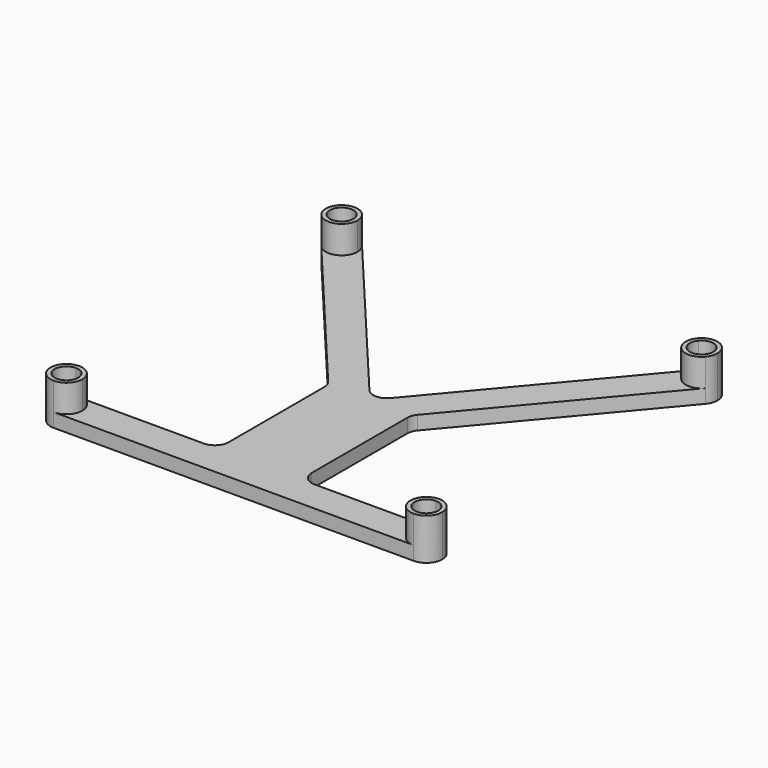
from build123d import *

# Parameters (mm, degrees)
F1_DEPTH = 5
F2_DEPTH = 15
F3_R     = 5


with BuildPart() as f1:
    # F0 (on Top) → F1 (new body)
    with BuildSketch(Plane.XY):
        with BuildLine():
            Line((-69.403826, 64.784578), (-15, -0.018286))
            Line((-15, -0.018286), (-15, -50.018286))
            Line((-15, -50.018286), (-65, -50.018286))
            ThreePointArc((-65, -50.018286), (-60.934136, -51.702422), (-59.25, -55.768286))
            ThreePointArc((-59.25, -55.768286), (-60.934136, -59.83415), (-65, -61.518286))
            Line((-65, -61.518286), (-15, -61.518286))
            Line((-15, -61.518286), (15, -61.518286))
            Line((15, -61.518286), (65, -61.518286))
            ThreePointArc((65, -61.518286), (59.25, -55.768286), (65, -50.018286))
            Line((65, -50.018286), (15, -50.018286))
            Line((15, -50.018286), (15, -0.018286))
            Line((15, -0.018286), (69.403826, 64.784578))
            ThreePointArc((69.403826, 64.784578), (61.302864, 64.077888), (60.596174, 72.17885))
            Line((60.596174, 72.17885), (0, 0))
            Line((0, 0), (-60.596174, 72.17885))
            ThreePointArc((-60.596174, 72.17885), (-59.597015, 70.449009), (-59.25, 68.481714))
            ThreePointArc((-59.25, 68.481714), (-63.032705, 63.078729), (-69.403826, 64.784578))
        make_face()
    extrude(amount=F1_DEPTH)

    # F0 (on Top) → F2 (join)
    with BuildSketch(Plane.XY):
        with BuildLine():
            Line((-65, -51.518286), (-65, -50.018286))
            ThreePointArc((-65, -50.018286), (-70.75, -55.768286), (-65, -61.518286))
            Line((-65, -61.518286), (-65, -60.018286))
            ThreePointArc((-65, -60.018286), (-69.25, -55.768286), (-65, -51.518286))
        make_face()
        with BuildLine():
            ThreePointArc((-59.25, -55.768286), (-60.934136, -51.702422), (-65, -50.018286))
            Line((-65, -50.018286), (-65, -51.518286))
            ThreePointArc((-65, -51.518286), (-61.994796, -52.763082), (-60.75, -55.768286))
            ThreePointArc((-60.75, -55.768286), (-61.994796, -58.77349), (-65, -60.018286))
            Line((-65, -60.018286), (-65, -61.518286))
            ThreePointArc((-65, -61.518286), (-60.934136, -59.83415), (-59.25, -55.768286))
        make_face()
        with BuildLine():
            ThreePointArc((65, -50.018286), (59.25, -55.768286), (65, -61.518286))
            Line((65, -61.518286), (65, -60.018286))
            ThreePointArc((65, -60.018286), (60.75, -55.768286), (65, -51.518286))
            Line((65, -51.518286), (65, -50.018286))
        make_face()
        with BuildLine():
            Line((65, -60.018286), (65, -61.518286))
            ThreePointArc((65, -61.518286), (69.065864, -59.83415), (70.75, -55.768286))
            ThreePointArc((70.75, -55.768286), (69.065864, -51.702422), (65, -50.018286))
            Line((65, -50.018286), (65, -51.518286))
            ThreePointArc((65, -51.518286), (68.005204, -52.763082), (69.25, -55.768286))
            ThreePointArc((69.25, -55.768286), (68.005204, -58.77349), (65, -60.018286))
        make_face()
        with BuildLine():
            Line((61.744998, 71.21438), (60.596174, 72.17885))
            ThreePointArc((60.596174, 72.17885), (61.302864, 64.077888), (69.403826, 64.784578))
            Line((69.403826, 64.784578), (68.255002, 65.749048))
            ThreePointArc((68.255002, 65.749048), (62.267334, 65.226712), (61.744998, 71.21438))
        make_face()
        with BuildLine():
            ThreePointArc((70.75, 68.481714), (66.967295, 73.884699), (60.596174, 72.17885))
            Line((60.596174, 72.17885), (61.744998, 71.21438))
            ThreePointArc((61.744998, 71.21438), (66.454088, 72.475225), (69.25, 68.481714))
            ThreePointArc((69.25, 68.481714), (68.993511, 67.027626), (68.255002, 65.749048))
            Line((68.255002, 65.749048), (69.403826, 64.784578))
            ThreePointArc((69.403826, 64.784578), (70.402985, 66.514419), (70.75, 68.481714))
        make_face()
        with BuildLine():
            ThreePointArc((-60.596174, 72.17885), (-68.697136, 72.88554), (-69.403826, 64.784578))
            Line((-69.403826, 64.784578), (-68.255002, 65.749048))
            ThreePointArc((-68.255002, 65.749048), (-67.732666, 71.736716), (-61.744998, 71.21438))
            Line((-61.744998, 71.21438), (-60.596174, 72.17885))
        make_face()
        with BuildLine():
            Line((-68.255002, 65.749048), (-69.403826, 64.784578))
            ThreePointArc((-69.403826, 64.784578), (-63.032705, 63.078729), (-59.25, 68.481714))
            ThreePointArc((-59.25, 68.481714), (-59.597015, 70.449009), (-60.596174, 72.17885))
            Line((-60.596174, 72.17885), (-61.744998, 71.21438))
            ThreePointArc((-61.744998, 71.21438), (-61.006489, 69.935802), (-60.75, 68.481714))
            ThreePointArc((-60.75, 68.481714), (-63.545912, 64.488203), (-68.255002, 65.749048))
        make_face()
    extrude(amount=F2_DEPTH)

    # F3
    f3_edges = [f1.edges().sort_by_distance(p)[0] for p in [
        (0, 0, 2.5),
        (-15, -0.018286, 2.5),
        (15, -0.018286, 2.5),
        (15, -50.018286, 2.5),
        (-15, -50.018286, 2.5),
    ]]
    fillet(f3_edges, radius=F3_R)


solid = f1.part
